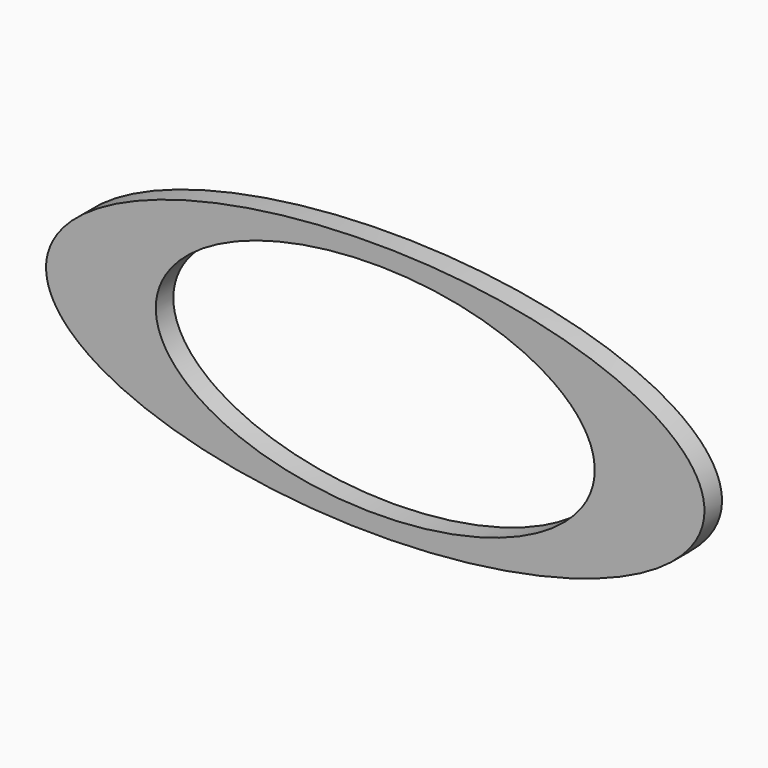
from build123d import *

# Parameters (mm, degrees)
F1_DEPTH = 3
F3_DEPTH = 3.001


with BuildPart() as f1:
    # F0 (on Front) → F1 (new body)
    with BuildSketch(Plane.XZ):
        with BuildLine():
            add(Edge.make_bspline(
                [(-54.697631, -46.196386), (-54.697631, -76.507275), (12.802369, -61.351831), (80.302369, -46.196386), (12.802369, -31.040942), (-54.697631, -15.885497), (-54.697631, -46.196386)],
                knots=[0, 0, 0, 2.094395, 2.094395, 4.18879, 4.18879, 6.283185, 6.283185, 6.283185], degree=2, weights=[1, 0.5, 1, 0.5, 1, 0.5, 1]))
        make_face()
    extrude(amount=F1_DEPTH)

    # F2 (on face) → F3 (cut, through all)
    with BuildSketch(Plane.XZ.offset(3)):
        with BuildLine():
            add(Edge.make_bspline(
                [(-39.697631, -46.196386), (-39.697631, -72.177148), (5.302369, -59.186767), (50.302369, -46.196386), (5.302369, -33.206005), (-39.697631, -20.215624), (-39.697631, -46.196386)],
                knots=[0, 0, 0, 2.094395, 2.094395, 4.18879, 4.18879, 6.283185, 6.283185, 6.283185], degree=2, weights=[1, 0.5, 1, 0.5, 1, 0.5, 1]))
        make_face()
    extrude(amount=-F3_DEPTH, mode=Mode.SUBTRACT)


solid = f1.part
